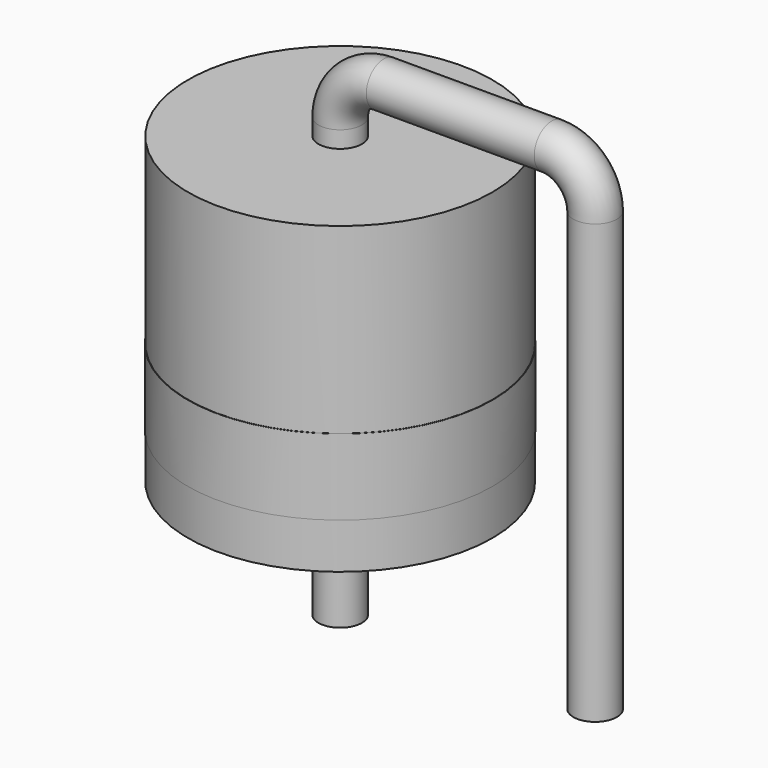
from build123d import *

# Parameters (mm, degrees)
SKETCH001_R = 0.65
SKETCH002_W = 4.55
SKETCH002_H = 9.1
SKETCH003_W = 4.56
SKETCH003_H = 2.275


with BuildPart() as sweep_body:
    # Sweep: sweep along a path in Sketch
    with BuildLine(Plane.XZ) as sweep_path:
        Line((0, -3), (0, 10.1))
        ThreePointArc((0, 10.1), (0.380761, 11.019239), (1.3, 11.4))
        Line((1.3, 11.4), (6.32, 11.4))
        ThreePointArc((6.32, 11.4), (7.239239, 11.019239), (7.62, 10.1))
        Line((7.62, 10.1), (7.62, -3))
    # Sketch001 → Sweep (sweep)
    with BuildSketch(Plane.XY):
        Circle(SKETCH001_R)
    sweep(path=sweep_path.line)


with BuildPart() as revolution:
    # Sketch002 → Revolution (revolve)
    with BuildSketch(Plane.XZ):
        with Locations((2.275, 5.05)):
            Rectangle(SKETCH002_W, SKETCH002_H)
    revolve(axis=Axis((0, 0, 0.5), (0, 0, 1)))


with BuildPart() as revolution001:
    # Sketch003 → Revolution001 (revolve)
    with BuildSketch(Plane.XZ):
        with Locations((2.28, 3.0025)):
            Rectangle(SKETCH003_W, SKETCH003_H)
    revolve(axis=Axis((0, 0, 0), (0, 0, 1)))


solid = Compound([sweep_body.part, revolution.part, revolution001.part])
